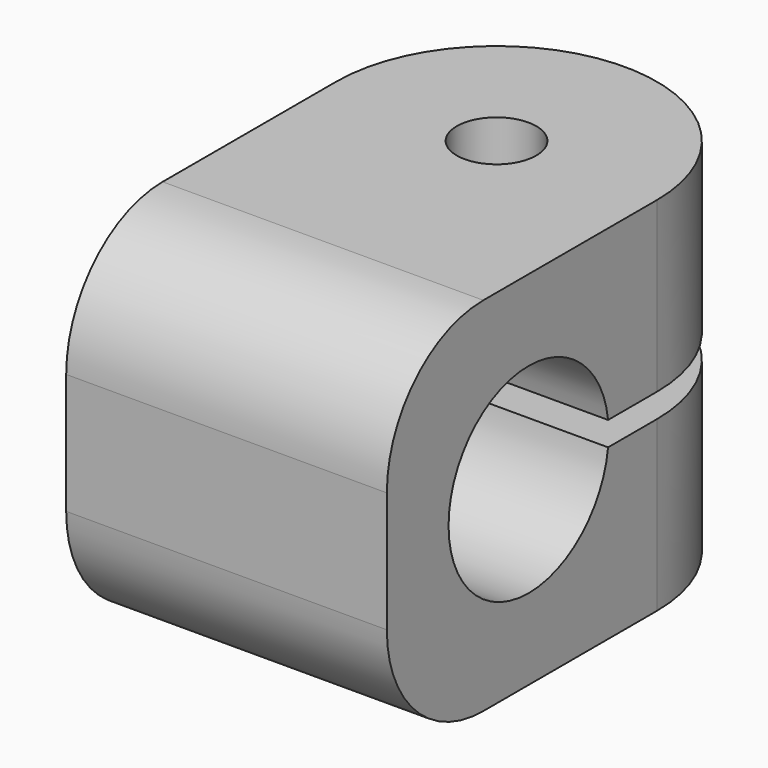
from build123d import *

# Parameters (mm, degrees)
F1_DEPTH = 15
F2_W     = 3.3
F2_H     = 1
F2_W_2   = 6.2084717173
F3_DEPTH = 13.301
F4_R     = 5


with BuildPart() as f1:
    # F0 (on Top) → F1 (new body)
    with BuildSketch(Plane.XY):
        with BuildLine():
            Line((6.65, 0), (1.65, 0))
            ThreePointArc((1.65, 0), (0, -1.65), (-1.65, 0))
            Line((-1.65, 0), (-6.65, 0))
            ThreePointArc((-6.65, 0), (0, -6.65), (6.65, 0))
        make_face()
        with BuildLine():
            ThreePointArc((-1.65, 0), (0, 1.65), (1.65, 0))
            Line((1.65, 0), (6.65, 0))
            ThreePointArc((6.65, 0), (0, 6.65), (-6.65, 0))
            Line((-6.65, 0), (-1.65, 0))
        make_face()
        with BuildLine():
            Line((6.65, -14), (6.65, 0))
            ThreePointArc((6.65, 0), (0, -6.65), (-6.65, 0))
            Line((-6.65, 0), (-6.65, -14))
            Line((-6.65, -14), (6.65, -14))
        make_face()
    extrude(amount=F1_DEPTH)

    # F2 (on face) → F3 (cut, through all)
    with BuildSketch(Plane.YZ.offset(6.65)):
        with BuildLine():
            ThreePointArc((-2.530230589, 7), (-2.5075645415, 7.2495434726), (-2.5, 7.5))
            ThreePointArc((-2.5, 7.5), (-2.5075645415, 7.7504565274), (-2.530230589, 8))
            Line((-2.530230589, 8), (-2.530230589, 7.5))
            Line((-2.530230589, 7.5), (-2.530230589, 7))
        make_face()
        with BuildLine():
            ThreePointArc((-2.530230589, 8), (-2.5075645415, 7.7504565274), (-2.5, 7.5))
            ThreePointArc((-2.5, 7.5), (-2.5075645415, 7.2495434726), (-2.530230589, 7))
            Line((-2.530230589, 7), (-1.65, 7))
            Line((-1.65, 7), (-1.65, 8))
            Line((-1.65, 8), (-2.530230589, 8))
        make_face()
        with BuildLine():
            Line((-2.530230589, 7.5), (-2.530230589, 8))
            ThreePointArc((-2.530230589, 8), (-6.9004565274, 11.6424354585), (-10.8, 7.5))
            Line((-10.8, 7.5), (-2.530230589, 7.5))
        make_face()
        with BuildLine():
            ThreePointArc((-10.8, 7.5), (-6.9004565274, 3.3575645415), (-2.530230589, 7))
            Line((-2.530230589, 7), (-2.530230589, 7.5))
            Line((-2.530230589, 7.5), (-10.8, 7.5))
        make_face()
        with Locations((0, 7.5)):
            Rectangle(F2_W, F2_H)
        with Locations((4.7542358587, 7.5)):
            Rectangle(F2_W_2, F2_H)
    extrude(amount=-F3_DEPTH, mode=Mode.SUBTRACT)

    # F4
    f4_edges = [f1.edges().sort_by_distance(p)[0] for p in [
        (0, -14, 15),
        (0, -14, 0),
    ]]
    fillet(f4_edges, radius=F4_R)


solid = f1.part
